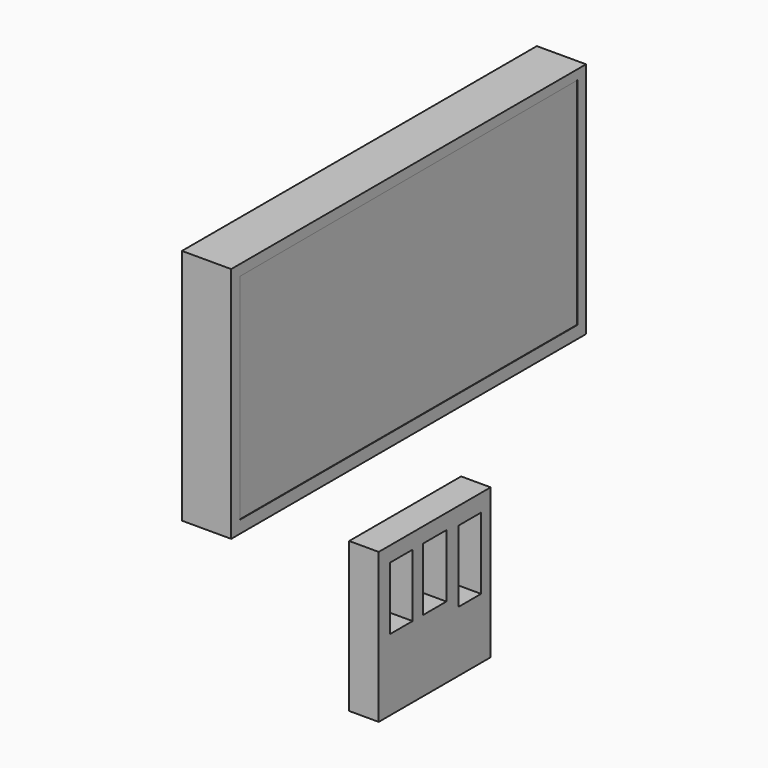
from build123d import *

# Parameters (mm, degrees)
F0_W     = 114.4198961556
F0_H     = 61.26639992
F1_DEPTH = 25.4
F2_DEPTH = 12.7
F3_W     = 36.0884238034
F3_H     = 38.6062264442
F4_DEPTH = 7.62
F5_DEPTH = 25.4
F6_DEPTH = 25.4
F8_DEPTH = 0.127


with BuildPart() as f1:
    # F0 (on Right) → F1 (new body)
    with BuildSketch(Plane.YZ):
        with Locations((0.8392650634, 19.7227448225)):
            Rectangle(F0_W, F0_H)
    extrude(amount=F1_DEPTH)

    # F2 (cut): a face of the model
    f2_faces = [f1.faces().sort_by_distance(p)[0] for p in [
        (0, 0.8392650634, 19.7227448225),
    ]]
    extrude(f2_faces, amount=-F2_DEPTH, mode=Mode.SUBTRACT)

    # F7 (on face) → F8 (cut)
    with BuildSketch(Plane.YZ.offset(25.4)):
        Polygon((55.2995614707, 47.8838682175), (-53.573127836, 47.5583933294), (-53.573127836, -7.7127907425), (55.2995614707, -7.7127907425), align=None)
    extrude(amount=-F8_DEPTH, mode=Mode.SUBTRACT)


with BuildPart() as f4:
    # F3 (on Right) → F4 (new body)
    with BuildSketch(Plane.YZ):
        with Locations((-0.2797553316, -46.1596176028)):
            Rectangle(F3_W, F3_H)
        Polygon((-14.6871525794, -30.7730771601), (-7.4135130271, -30.7730771601), (-7.4135130271, -46.9988808036), (-11.0503328033, -46.9988808036), (-14.6871525794, -46.9988808036), align=None, mode=Mode.SUBTRACT)
        Polygon((-4.0564504452, -30.7730771601), (3.496941179, -30.7730771601), (3.496941179, -46.9988808036), (0, -46.9988808036), (-4.0564504452, -46.9988808036), align=None, mode=Mode.SUBTRACT)
        Polygon((7.4135130271, -31.3325859606), (14.6871497855, -31.3325859606), (14.6871497855, -49.796435982), (11.0503314063, -49.796435982), (7.4135130271, -49.796435982), align=None, mode=Mode.SUBTRACT)
    extrude(amount=F4_DEPTH)

    # F5 (add): a face of the model
    f5_faces = [f4.faces().sort_by_distance(p)[0] for p in [
        (7.62, -0.5257127517, -48.6158408986),
    ]]
    extrude(f5_faces, amount=F5_DEPTH)

    # F6 (cut): a face of the model
    f6_faces = [f4.faces().sort_by_distance(p)[0] for p in [
        (0, -0.5257127517, -48.6158408986),
    ]]
    extrude(f6_faces, amount=-F6_DEPTH, mode=Mode.SUBTRACT)


solid = Compound([f1.part, f4.part])
